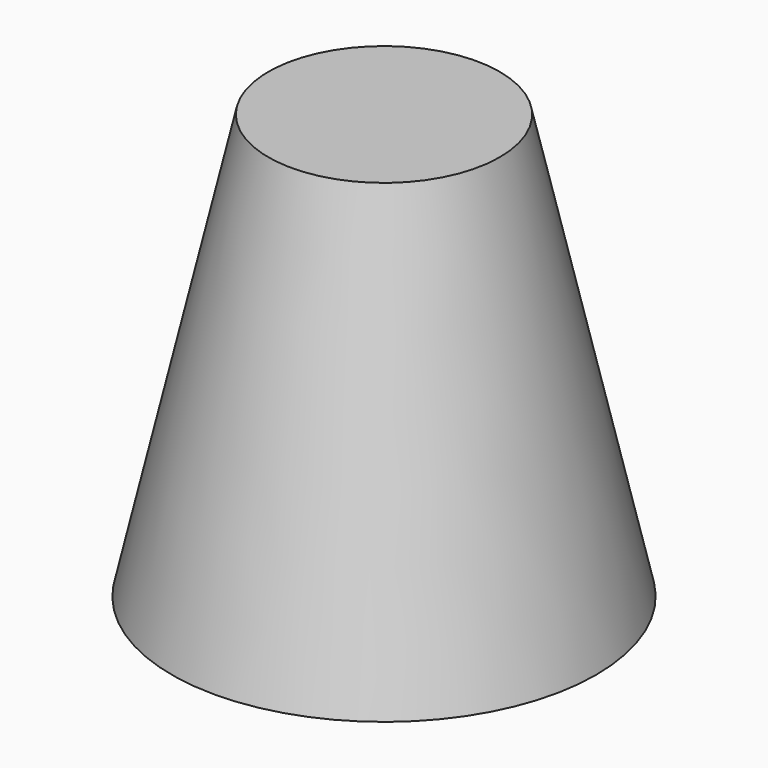
from build123d import *

# Parameters (mm, degrees)
F2_R     = 3.7
F3_DEPTH = 4.4


with BuildPart() as f1:
    # F0 (on Front) → F1 (revolve)
    with BuildSketch(Plane.XZ):
        Polygon((0, 11), (0, 0), (5.5, 0), (3, 11), align=None)
    revolve(axis=Axis((0, 0, 5.342995), (0, 0, -1)))

    # F2 (on face) → F3 (cut)
    with BuildSketch(Plane(origin=(0, 0, 0), x_dir=(1, 0, 0), z_dir=(0, 0, -1))):
        Circle(F2_R)
    extrude(amount=-F3_DEPTH, mode=Mode.SUBTRACT)


solid = f1.part
